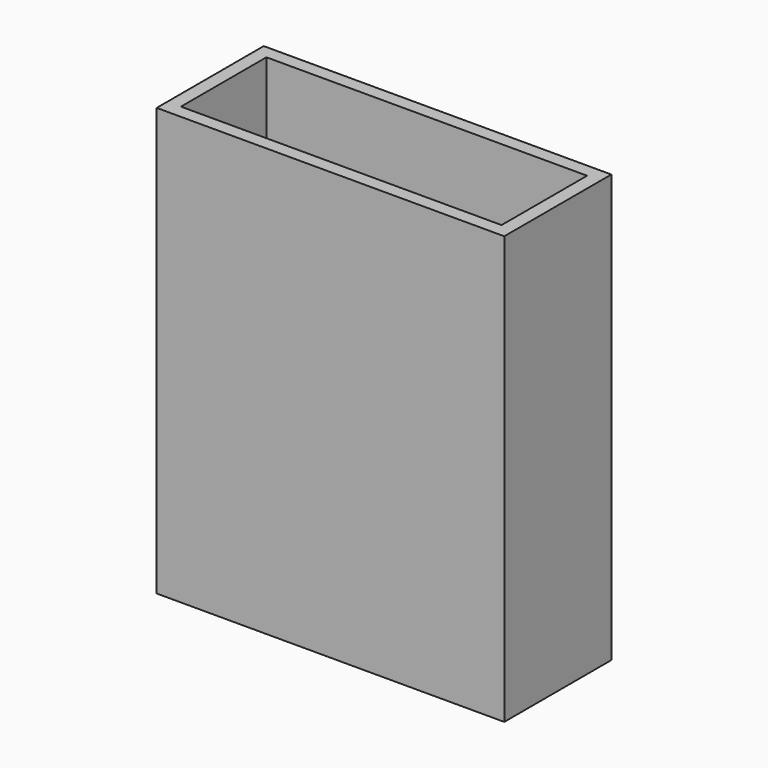
from build123d import *

# Parameters (mm, degrees)
BOX001_W     = 38.1
BOX001_H     = 12.7
BOX001_DEPTH = 50.8
BOX002_W     = 41.3004
BOX002_H     = 15.9004
BOX002_DEPTH = 50.8


with BuildPart() as cube001:
    # Box001 → Box001 (new body)
    with BuildSketch(Plane(origin=(1.6002, 1.6002, 1.6002), x_dir=(1, 0, 0), z_dir=(0, 0, 1))):
        with Locations((19.05, 6.35)):
            Rectangle(BOX001_W, BOX001_H)
    extrude(amount=BOX001_DEPTH)


with BuildPart() as cut:
    # Box002 → Box002 (new body)
    with BuildSketch(Plane.XY):
        with Locations((20.6502, 7.9502)):
            Rectangle(BOX002_W, BOX002_H)
    extrude(amount=BOX002_DEPTH)

    # Cut: cut Cube001
    add(cube001.part, mode=Mode.SUBTRACT)


with BuildPart() as cut_1:
    # Cut placement: moved
    add(cut.part.moved(Location((-15.8242, -7.874, -1.6002))))


solid = cut_1.part
